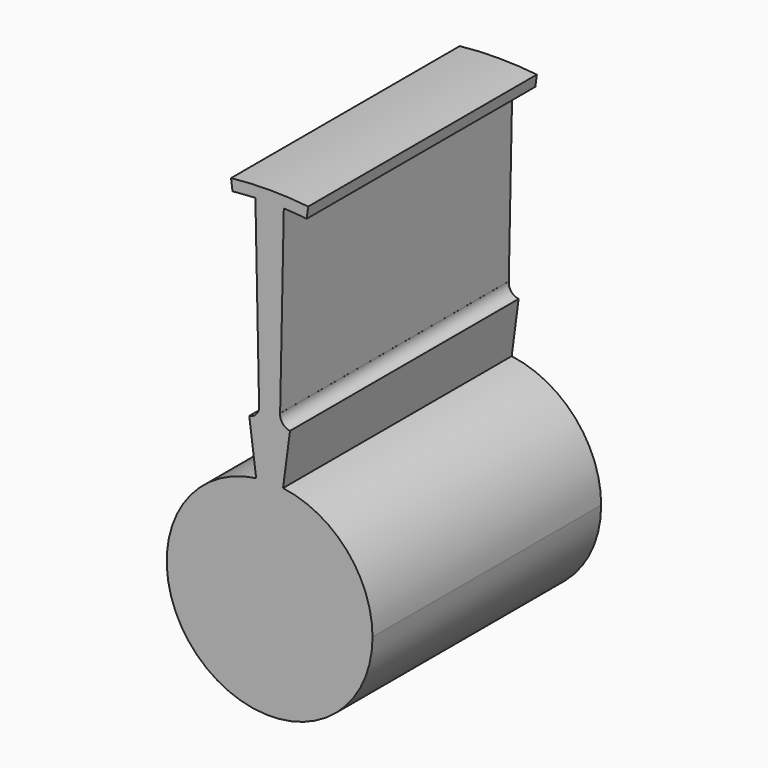
from build123d import *

# Parameters (mm, degrees)
F1_DEPTH = 50
F2_DEPTH = 25


with BuildPart() as f1:
    # F0 (on Front) → F1 (new body)
    with BuildSketch(Plane.XZ):
        with BuildLine():
            Line((-2.4867556309, 60.9650519091), (-1.8452782409, 29.2094878321))
            ThreePointArc((-1.8452782409, 29.2094878321), (-2.2666932983, 27.7828792564), (-3.5612067405, 27.0500507454))
            Line((-3.5612067405, 27.0500507454), (-2.34947146, 17.8460075047))
            ThreePointArc((-2.34947146, 17.8460075047), (0, 18), (2.34947146, 17.8460075047))
            Line((2.34947146, 17.8460075047), (3.5612067405, 27.0500507454))
            ThreePointArc((3.5612067405, 27.0500507454), (2.2666932983, 27.7828792564), (1.8452782409, 29.2094878321))
            Line((1.8452782409, 29.2094878321), (1.8394331553, 29.209856502))
            Line((1.8394331553, 29.209856502), (2.4803149606, 60.9653142823))
            ThreePointArc((2.4803149606, 60.9653142823), (4.485751683, 60.8506330261), (6.4863267166, 60.6700014304))
            Line((6.4863267166, 60.6700014304), (6.7453982129, 62.6378448141))
            ThreePointArc((6.7453982129, 62.6378448141), (0, 63), (-6.7453982129, 62.6378448141))
            Line((-6.7453982129, 62.6378448141), (-6.4863267166, 60.6700014304))
            ThreePointArc((-6.4863267166, 60.6700014304), (-4.4889659611, 60.8503959925), (-2.4867556309, 60.9650519091))
        make_face()
        with BuildLine():
            ThreePointArc((2.34947146, 17.8460075047), (0, 18), (-2.34947146, 17.8460075047))
            Line((-2.34947146, 17.8460075047), (0, 0))
            Line((0, 0), (2.34947146, 17.8460075047))
        make_face()
        with BuildLine():
            Line((0, 0), (-2.34947146, 17.8460075047))
            ThreePointArc((-2.34947146, 17.8460075047), (-11.8682246718, -13.5331165346), (18, 0))
            ThreePointArc((18, 0), (13.5331165346, 11.8682246718), (2.34947146, 17.8460075047))
            Line((2.34947146, 17.8460075047), (0, 0))
        make_face()
    extrude(amount=F1_DEPTH)

    # F0 (on Front) → F2 (join)
    with BuildSketch(Plane.XZ):
        with BuildLine():
            Line((-2.4867556309, 60.9650519091), (-1.8452782409, 29.2094878321))
            ThreePointArc((-1.8452782409, 29.2094878321), (-2.2666932983, 27.7828792564), (-3.5612067405, 27.0500507454))
            Line((-3.5612067405, 27.0500507454), (-2.34947146, 17.8460075047))
            ThreePointArc((-2.34947146, 17.8460075047), (0, 18), (2.34947146, 17.8460075047))
            Line((2.34947146, 17.8460075047), (3.5612067405, 27.0500507454))
            ThreePointArc((3.5612067405, 27.0500507454), (2.2666932983, 27.7828792564), (1.8452782409, 29.2094878321))
            Line((1.8452782409, 29.2094878321), (1.8394331553, 29.209856502))
            Line((1.8394331553, 29.209856502), (2.4803149606, 60.9653142823))
            ThreePointArc((2.4803149606, 60.9653142823), (4.485751683, 60.8506330261), (6.4863267166, 60.6700014304))
            Line((6.4863267166, 60.6700014304), (6.7453982129, 62.6378448141))
            ThreePointArc((6.7453982129, 62.6378448141), (0, 63), (-6.7453982129, 62.6378448141))
            Line((-6.7453982129, 62.6378448141), (-6.4863267166, 60.6700014304))
            ThreePointArc((-6.4863267166, 60.6700014304), (-4.4889659611, 60.8503959925), (-2.4867556309, 60.9650519091))
        make_face()
        with BuildLine():
            ThreePointArc((2.34947146, 17.8460075047), (0, 18), (-2.34947146, 17.8460075047))
            Line((-2.34947146, 17.8460075047), (0, 0))
            Line((0, 0), (2.34947146, 17.8460075047))
        make_face()
        with BuildLine():
            Line((0, 0), (-2.34947146, 17.8460075047))
            ThreePointArc((-2.34947146, 17.8460075047), (-11.8682246718, -13.5331165346), (18, 0))
            ThreePointArc((18, 0), (13.5331165346, 11.8682246718), (2.34947146, 17.8460075047))
            Line((2.34947146, 17.8460075047), (0, 0))
        make_face()
    extrude(amount=F2_DEPTH)


solid = f1.part
